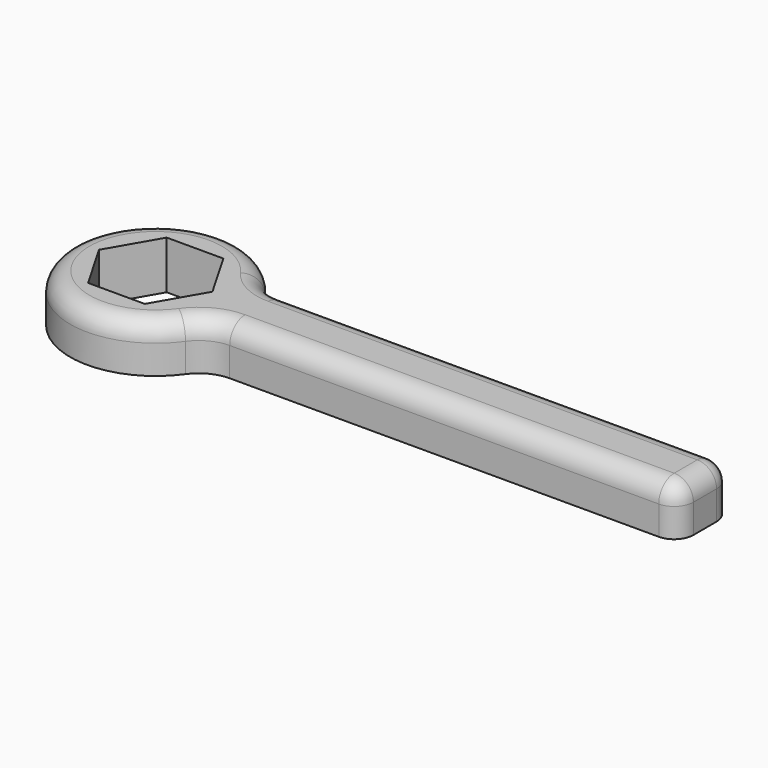
from build123d import *

# Parameters (mm, degrees)
F1_DEPTH = 6.35
F2_R     = 5.08
F3_R     = 2.54
F4_R     = 2.54


with BuildPart() as f1:
    # F0 (on Top) → F1 (new body)
    with BuildSketch(Plane.XY):
        with BuildLine():
            Line((8.920526, 4.445), (10.377061, 4.445))
            ThreePointArc((10.377061, 4.445), (-11.288995, 0), (10.377061, -4.445))
            Line((10.377061, -4.445), (8.920526, -4.445))
            Line((8.920526, -4.445), (8.920526, 4.445))
        make_face()
        Polygon((3.739498, -6.477), (-3.739498, -6.477), (-7.478995, 0), (-3.739498, 6.477), (3.739498, 6.477), (7.478995, 0), align=None, mode=Mode.SUBTRACT)
        with BuildLine():
            ThreePointArc((10.377061, -4.445), (11.058662, -2.268791), (11.288995, 0))
            ThreePointArc((11.288995, 0), (11.058662, 2.268791), (10.377061, 4.445))
            Line((10.377061, 4.445), (8.920526, 4.445))
            Line((8.920526, 4.445), (8.920526, -4.445))
            Line((8.920526, -4.445), (10.377061, -4.445))
        make_face()
        with BuildLine():
            ThreePointArc((10.377061, 4.445), (11.058662, 2.268791), (11.288995, 0))
            ThreePointArc((11.288995, 0), (11.058662, -2.268791), (10.377061, -4.445))
            Line((10.377061, -4.445), (72.420526, -4.445))
            Line((72.420526, -4.445), (72.420526, 4.445))
            Line((72.420526, 4.445), (10.377061, 4.445))
        make_face()
    extrude(amount=F1_DEPTH)

    # F2
    f2_edges = [f1.edges().sort_by_distance(p)[0] for p in [
        (10.377061, -4.445, 3.175),
        (10.377061, 4.445, 3.175),
    ]]
    fillet(f2_edges, radius=F2_R)

    # F3
    f3_edges = [f1.edges().sort_by_distance(p)[0] for p in [
        (72.420526, 4.445, 3.175),
        (72.420526, -4.445, 3.175),
    ]]
    fillet(f3_edges, radius=F3_R)

    # F4
    f4_edges = [f1.edges().sort_by_distance(p)[0] for p in [
        (41.596433, -4.445, 6.35),
    ]]
    fillet(f4_edges, radius=F4_R)


solid = f1.part
